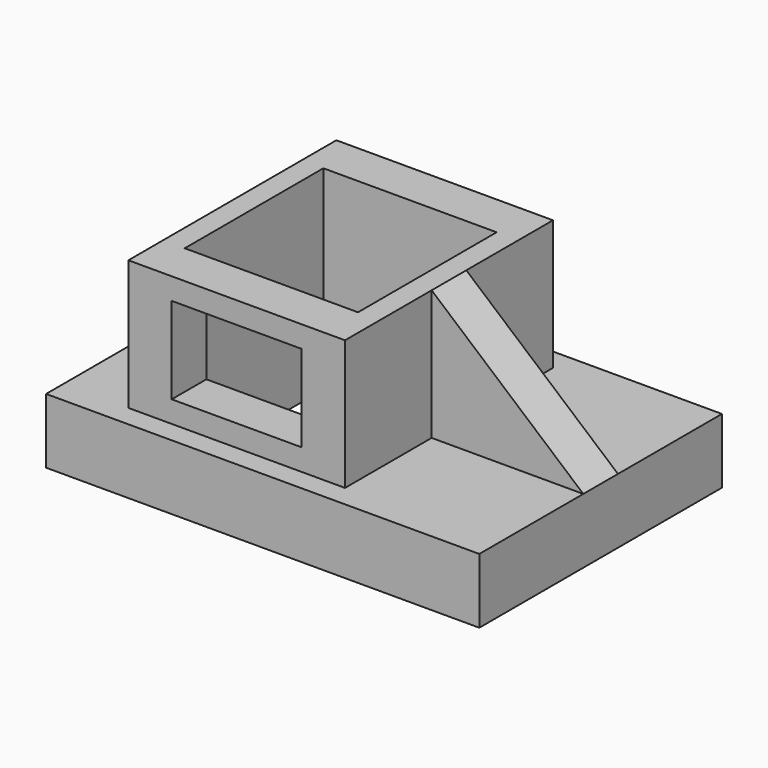
from build123d import *

# Parameters (mm, degrees)
PAD002_DEPTH    = 3
SKETCH_W        = 60
SKETCH_H        = 42
PAD_DEPTH       = 9
SKETCH001_W     = 30
SKETCH001_H     = 36
PAD001_DEPTH    = 18
SKETCH002_W     = 24
SKETCH002_H     = 24
POCKET_DEPTH    = 27.001
SKETCH005_W     = 18
SKETCH005_H     = 12
POCKET001_DEPTH = 6


with BuildPart() as pad002:
    # Sketch004 → Pad002 (new body, symmetric)
    with BuildSketch(Plane.XZ):
        Polygon((9, 27), (9, 9), (30, 9), align=None)
    extrude(amount=PAD002_DEPTH, both=True)


with BuildPart() as fusion:
    # Sketch → Pad (new body)
    with BuildSketch(Plane.XY):
        Rectangle(SKETCH_W, SKETCH_H)
    extrude(amount=PAD_DEPTH)

    # Sketch001 → Pad001 (new body)
    with BuildSketch(Plane.XY.offset(9)):
        with Locations((-6, 0)):
            Rectangle(SKETCH001_W, SKETCH001_H)
    extrude(amount=PAD001_DEPTH)

    # Sketch002 → Pocket (cut, through all)
    with BuildSketch(Plane.XY.offset(27)):
        with Locations((-6, 0)):
            Rectangle(SKETCH002_W, SKETCH002_H)
    extrude(amount=-POCKET_DEPTH, mode=Mode.SUBTRACT)

    # Sketch005 → Pocket001 (cut)
    with BuildSketch(Plane.XZ.offset(18)):
        with Locations((-6, 18)):
            Rectangle(SKETCH005_W, SKETCH005_H)
    extrude(amount=-POCKET001_DEPTH, mode=Mode.SUBTRACT)

    # Fusion: union Pad002
    add(pad002.part)


solid = fusion.part
